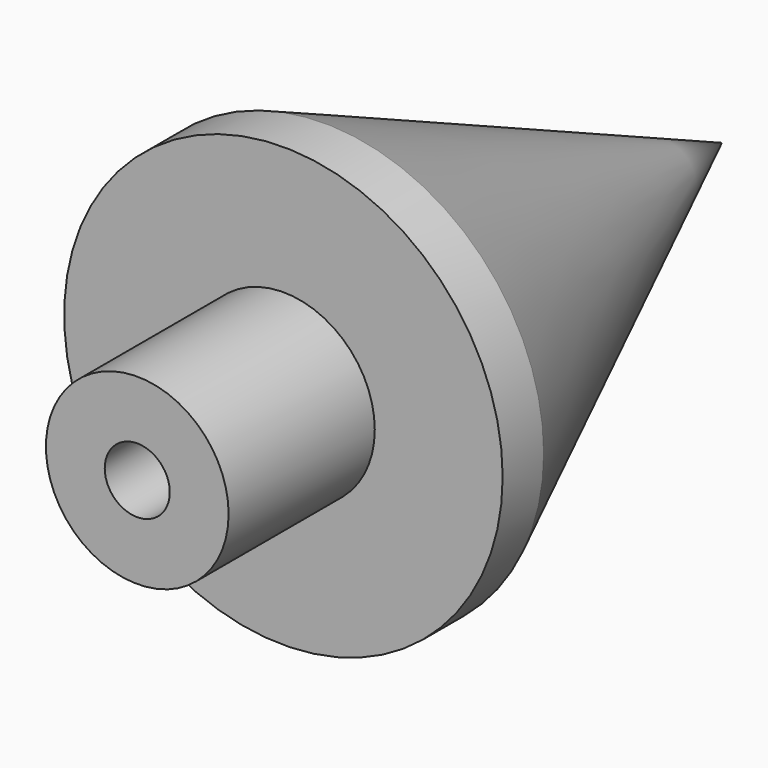
from build123d import *

# Parameters (mm, degrees)
F3_D     = 2.2606
F3_DEPTH = 14.6304
F3_TIP   = 0.6791527577


with BuildPart() as f1:
    # F0 (on Top) → F1 (revolve)
    with BuildSketch(Plane.XY):
        Polygon((0, 25.4), (0, 0), (3.175, 0), (3.175, 6.35), (7.62, 6.35), (7.62, 8.128), align=None)
    revolve(axis=Axis((0, 12.7, 0), (0, 1, 0)))

    # F3
    with Locations(Plane.XZ):
        with Locations((0, 0)):
            Hole(F3_D / 2, depth=F3_DEPTH)
            with Locations((0, 0, -(F3_DEPTH + F3_TIP / 2))):  # 118° drill point
                Cone(0, F3_D / 2, F3_TIP, mode=Mode.SUBTRACT)


solid = f1.part
